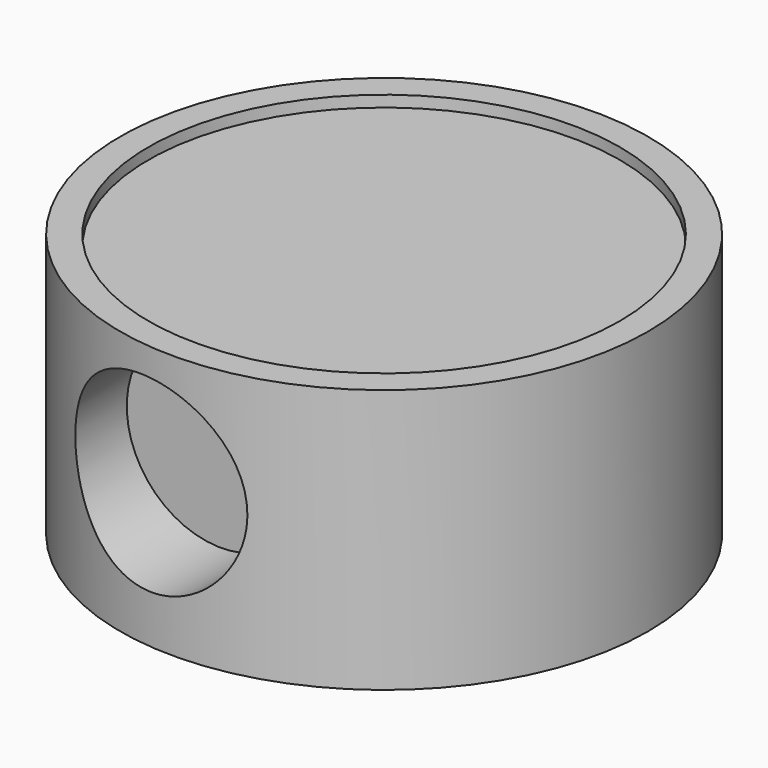
from build123d import *

# Parameters (mm, degrees)
F0_R     = 70
F1_DEPTH = 70
F3_R     = 25
F4_DEPTH = 25
F5_R     = 62.5
F6_DEPTH = 3


with BuildPart() as f1:
    # F0 (on Top) → F1 (new body)
    with BuildSketch(Plane.XY):
        with Locations((-43.56515, 8.154014)):
            Circle(F0_R)
    extrude(amount=F1_DEPTH)

    # F3 (on offset) → F4 (cut)
    with BuildSketch(Plane.XZ.offset(62)):
        with Locations((-50.681688, 37.782334)):
            Circle(F3_R)
    extrude(amount=-F4_DEPTH, mode=Mode.SUBTRACT)

    # F5 (on face) → F6 (cut)
    with BuildSketch(Plane.XY.offset(70)):
        with Locations((-43.56515, 8.154014)):
            Circle(F5_R)
    extrude(amount=-F6_DEPTH, mode=Mode.SUBTRACT)


solid = f1.part
